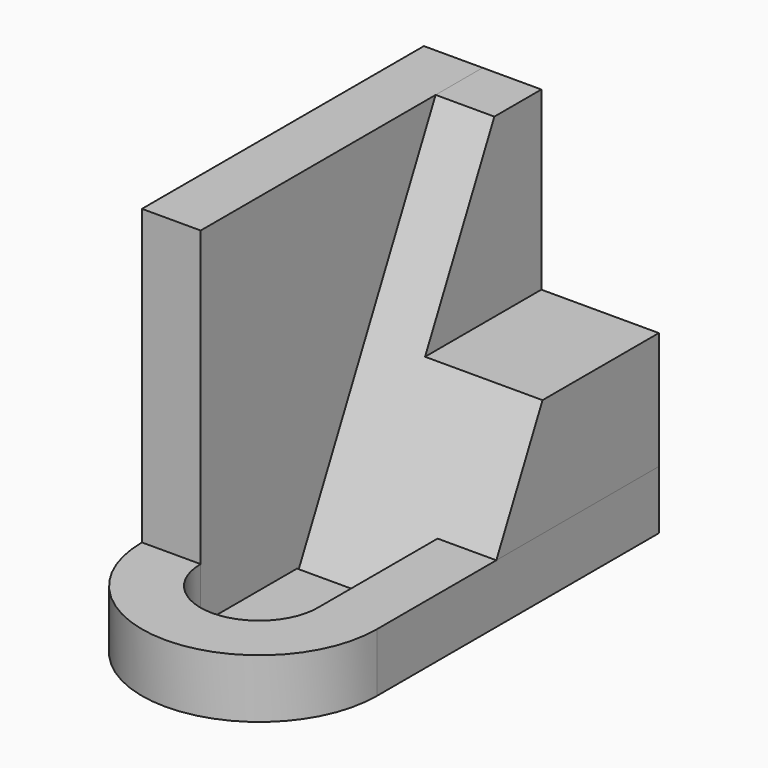
from build123d import *

# Parameters (mm, degrees)
F0_W     = 50.8
F0_H     = 7.2625415075
F1_DEPTH = 2.54
F0_W_2   = 25.4
F0_H_2   = 25.4
F2_DEPTH = 152.4
F4_DEPTH = 101.6
F5_W     = 50.8
F5_H     = 76.2
F6_DEPTH = 63.5
F0_H_3   = 52.07
F7_DEPTH = 152.4
F8_DEPTH = 25.4


with BuildPart() as f1:
    # F0 (on Top) → F1 (new body)
    with BuildSketch(Plane.XY):
        with BuildLine():
            Line((8.6435877442, 36.8893793178), (-42.1564122558, 36.8893793178))
            Line((-42.1564122558, 36.8893793178), (-42.1564122558, -15.1806206822))
            ThreePointArc((-42.1564122558, -15.1806206822), (-16.7564122558, -40.7145502088), (8.6435877442, -15.1806206822))
            Line((8.6435877442, -15.1806206822), (8.6435877442, 36.8893793178))
        make_face()
        with Locations((-16.7564122558, 40.5206500715)):
            Rectangle(F0_W, F0_H)
    extrude(amount=F1_DEPTH)

    # F0 (on Top) → F2 (join)
    with BuildSketch(Plane.XY):
        Polygon((34.0435877442, 137.2193793178), (8.6435877442, 137.2193793178), (8.6435877442, 44.1519208252), (8.6435877442, 36.8893793178), (34.0435877442, 36.8893793178), align=None)
        Polygon((8.6435877442, 137.2193793178), (-16.7564122558, 137.2193793178), (-16.7564122558, 111.8193793178), (-42.1564122558, 111.8193793178), (-42.1564122558, 44.1519208252), (8.6435877442, 44.1519208252), align=None)
        with Locations((-29.4564122558, 124.5193793178)):
            Rectangle(F0_W_2, F0_H_2)
        Polygon((-42.1564122558, 137.2193793178), (-67.5564122558, 137.2193793178), (-67.5564122558, 36.8893793178), (-42.1564122558, 36.8893793178), (-42.1564122558, 44.1519208252), (-42.1564122558, 111.8193793178), align=None)
        with Locations((-16.7564122558, 40.5206500715)):
            Rectangle(F0_W, F0_H)
    extrude(amount=F2_DEPTH)

    # F3 (on face) → F4 (cut)
    with BuildSketch(Plane.YZ.offset(34.0435877442)):
        Polygon((36.8893793178, 0), (111.8193793178, 152.4), (36.8893793178, 152.4), align=None)
    extrude(amount=-F4_DEPTH, mode=Mode.SUBTRACT)

    # F5 (on face) → F6 (cut)
    with BuildSketch(Plane(origin=(0, 137.2193793178, 0), x_dir=(-1, 0, 0), z_dir=(0, 1, 0))):
        with Locations((-8.6435877442, 114.3)):
            Rectangle(F5_W, F5_H)
    extrude(amount=-F6_DEPTH, mode=Mode.SUBTRACT)


with BuildPart() as f7:
    # F0 (on Top) → F7 (new body)
    with BuildSketch(Plane.XY):
        with Locations((-54.8564122558, 10.8543793178)):
            Rectangle(F0_W_2, F0_H_3)
        Polygon((-42.1564122558, 137.2193793178), (-67.5564122558, 137.2193793178), (-67.5564122558, 36.8893793178), (-42.1564122558, 36.8893793178), (-42.1564122558, 44.1519208252), (-42.1564122558, 111.8193793178), align=None)
    extrude(amount=F7_DEPTH)


with BuildPart() as f8:
    # F0 (on Top) → F8 (new body)
    with BuildSketch(Plane.XY):
        with BuildLine():
            Line((-42.1564122558, -15.1806206822), (-67.5564122558, -15.1806206822))
            ThreePointArc((-67.5564122558, -15.1806206822), (-16.7564122558, -65.9806206822), (34.0435877442, -15.1806206822))
            Line((34.0435877442, -15.1806206822), (8.6435877442, -15.1806206822))
            ThreePointArc((8.6435877442, -15.1806206822), (-16.7564122558, -40.7145502088), (-42.1564122558, -15.1806206822))
        make_face()
        with Locations((21.3435877442, 10.8543793178)):
            Rectangle(F0_W_2, F0_H_3)
        Polygon((34.0435877442, 137.2193793178), (8.6435877442, 137.2193793178), (8.6435877442, 44.1519208252), (8.6435877442, 36.8893793178), (34.0435877442, 36.8893793178), align=None)
    extrude(amount=F8_DEPTH)


solid = Compound([f1.part, f7.part, f8.part])
